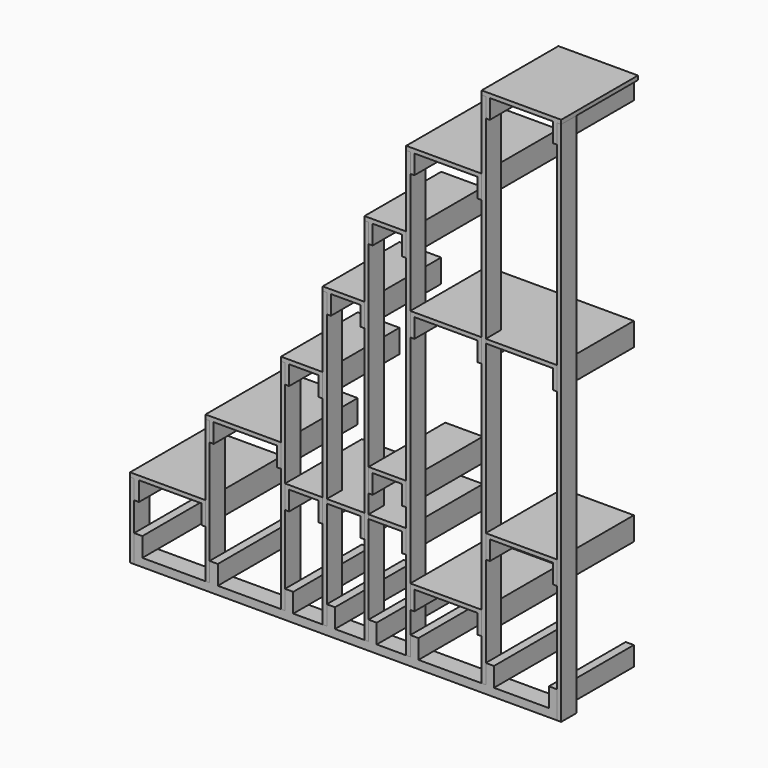
from build123d import *

# Parameters (mm, degrees)
F1_DEPTH = 89
F0_W     = 38
F0_H     = 89
F2_DEPTH = 445
F0_W_2   = 19
F0_H_2   = 19
F0_W_3   = 22.522257641
F3_DEPTH = 89


with BuildPart() as f1:
    # F0 (on Front) → F1 (new body)
    with BuildSketch(Plane.XZ):
        Polygon((0, 38), (0, 0), (1962, 0), (1962, 38), (1924, 38), (1669, 38), (1631, 38), (1612, 38), (1319, 38), (1281, 38), (1262, 38), (1125.34, 38), (1087.34, 38), (1068.34, 38), (931.67, 38), (893.67, 38), (874.67, 38), (738, 38), (700, 38), (681, 38), (388, 38), (350, 38), (331, 38), (38, 38), align=None)
    extrude(amount=-F1_DEPTH)

    # F0 (on Front) → F2 (join)
    with BuildSketch(Plane.XZ):
        with Locations((19, 82.5)):
            Rectangle(F0_W, F0_H)
        with Locations((369, 82.5)):
            Rectangle(F0_W, F0_H)
        with Locations((719, 82.5)):
            Rectangle(F0_W, F0_H)
        with Locations((912.67, 82.5)):
            Rectangle(F0_W, F0_H)
        with Locations((1106.34, 82.5)):
            Rectangle(F0_W, F0_H)
        with Locations((1300, 82.5)):
            Rectangle(F0_W, F0_H)
        with Locations((1650, 82.5)):
            Rectangle(F0_W, F0_H)
        with Locations((1943, 82.5)):
            Rectangle(F0_W, F0_H)
    extrude(amount=-F2_DEPTH)


with BuildPart() as f2:
    # F0 (on Front) → F2, piece 2 (new body)
    with BuildSketch(Plane.XZ):
        with Locations((1602.5, 274.5)):
            Rectangle(F0_W_2, F0_H)
        with Locations((1290.5, 274.5)):
            Rectangle(F0_W_2, F0_H)
        Polygon((1593, 319), (1612, 319), (1612, 338), (1281, 338), (1281, 319), (1300, 319), align=None)
    extrude(amount=-F2_DEPTH)


with BuildPart() as f2b:
    # F0 (on Front) → F2, piece 3 (new body)
    with BuildSketch(Plane.XZ):
        with Locations((1252.5, 493.5)):
            Rectangle(F0_W_2, F0_H)
        with Locations((1058.84, 493.5)):
            Rectangle(F0_W_2, F0_H)
        with Locations((864.8003072739, 493.5)):
            Rectangle(F0_W_2, F0_H)
        with Locations((709.5, 493.5)):
            Rectangle(F0_W_2, F0_H)
        Polygon((1243, 538), (1262, 538), (1262, 557), (1087.34, 557), (1087.34, 538), align=None)
        with Locations((1077.84, 547.5)):
            Rectangle(F0_W_2, F0_H_2)
        Polygon((893.67, 557), (893.67, 538), (1049.34, 538), (1068.34, 538), (1068.34, 557), align=None)
        with Locations((884.17, 547.5)):
            Rectangle(F0_W_2, F0_H_2)
        Polygon((874.3003072739, 538), (874.67, 538), (874.67, 557), (700, 557), (700, 538), (719, 538), (855.3003072739, 538), align=None)
    extrude(amount=-F2_DEPTH)


with BuildPart() as f2c:
    # F0 (on Front) → F2, piece 4 (new body)
    with BuildSketch(Plane.XZ):
        with Locations((321.5, 305.5)):
            Rectangle(F0_W_2, F0_H)
        with Locations((11.2611288205, 305.5)):
            Rectangle(F0_W_3, F0_H)
        Polygon((-19, 369), (-19, 350), (0, 350), (22.522257641, 350), (312, 350), (331, 350), (331, 369), align=None)
    extrude(amount=-F2_DEPTH)


with BuildPart() as f2d:
    # F0 (on Front) → F2, piece 5 (new body)
    with BuildSketch(Plane.XZ):
        with Locations((359.5, 655.5)):
            Rectangle(F0_W_2, F0_H)
        with Locations((671.5, 655.5)):
            Rectangle(F0_W_2, F0_H)
        Polygon((331, 719), (331, 700), (350, 700), (369, 700), (662, 700), (681, 700), (681, 719), align=None)
    extrude(amount=-F2_DEPTH)


with BuildPart() as f2e:
    # F0 (on Front) → F2, piece 6 (new body)
    with BuildSketch(Plane.XZ):
        with Locations((1096.84, 687.2)):
            Rectangle(F0_W_2, F0_H)
        with Locations((1252.5, 687.2)):
            Rectangle(F0_W_2, F0_H)
        Polygon((1262, 731.7), (1262, 750.7), (1087.34, 750.7), (1087.34, 731.7), (1106.34, 731.7), (1243, 731.7), align=None)
    extrude(amount=-F2_DEPTH)


with BuildPart() as f2f:
    # F0 (on Front) → F2, piece 7 (new body)
    with BuildSketch(Plane.XZ):
        with Locations((1640.5, 593.5)):
            Rectangle(F0_W_2, F0_H)
        with Locations((1952.5, 593.5)):
            Rectangle(F0_W_2, F0_H)
        Polygon((1943, 638), (1962, 638), (1962, 657), (1631, 657), (1631, 638), (1650, 638), align=None)
    extrude(amount=-F2_DEPTH)


with BuildPart() as f2g:
    # F0 (on Front) → F2, piece 8 (new body)
    with BuildSketch(Plane.XZ):
        with Locations((709.5, 1005.5)):
            Rectangle(F0_W_2, F0_H)
        with Locations((865.17, 1005.5)):
            Rectangle(F0_W_2, F0_H)
        Polygon((681, 1069), (681, 1050), (700, 1050), (719, 1050), (855.67, 1050), (874.67, 1050), (874.67, 1069), align=None)
    extrude(amount=-F2_DEPTH)


with BuildPart() as f2h:
    # F0 (on Front) → F2, piece 9 (new body)
    with BuildSketch(Plane.XZ):
        with Locations((903.17, 1355.5)):
            Rectangle(F0_W_2, F0_H)
        with Locations((1058.84, 1355.5)):
            Rectangle(F0_W_2, F0_H)
        Polygon((874.67, 1419), (874.67, 1400), (893.67, 1400), (912.67, 1400), (1049.34, 1400), (1068.34, 1400), (1068.34, 1419), align=None)
    extrude(amount=-F2_DEPTH)


with BuildPart() as f2i:
    # F0 (on Front) → F2, piece 10 (new body)
    with BuildSketch(Plane.XZ):
        with Locations((1290.5, 1387.2)):
            Rectangle(F0_W_2, F0_H)
        with Locations((1602.5, 1387.2)):
            Rectangle(F0_W_2, F0_H)
        with Locations((1952.5, 1387.2)):
            Rectangle(F0_W_2, F0_H)
        Polygon((1612, 1431.7), (1612, 1450.7), (1281, 1450.7), (1281, 1431.7), (1300, 1431.7), (1593, 1431.7), align=None)
        with Locations((1621.5, 1441.2)):
            Rectangle(F0_W_2, F0_H_2)
        Polygon((1962, 1431.7), (1962, 1450.7), (1631, 1450.7), (1631, 1431.7), (1943, 1431.7), align=None)
    extrude(amount=-F2_DEPTH)


with BuildPart() as f2j:
    # F0 (on Front) → F2, piece 11 (new body)
    with BuildSketch(Plane.XZ):
        with Locations((1096.84, 1705.5)):
            Rectangle(F0_W_2, F0_H)
        with Locations((1252.5, 1705.5)):
            Rectangle(F0_W_2, F0_H)
        Polygon((1262, 1750), (1262, 1769), (1068.34, 1769), (1068.34, 1750), (1087.34, 1750), (1106.34, 1750), (1243, 1750), align=None)
    extrude(amount=-F2_DEPTH)


with BuildPart() as f2k:
    # F0 (on Front) → F2, piece 12 (new body)
    with BuildSketch(Plane.XZ):
        with Locations((1290.5, 2055.5)):
            Rectangle(F0_W_2, F0_H)
        with Locations((1602.5, 2055.5)):
            Rectangle(F0_W_2, F0_H)
        Polygon((1612, 2100), (1612, 2119), (1262, 2119), (1262, 2100), (1281, 2100), (1300, 2100), (1593, 2100), align=None)
    extrude(amount=-F2_DEPTH)


with BuildPart() as f2l:
    # F0 (on Front) → F2, piece 13 (new body)
    with BuildSketch(Plane.XZ):
        with Locations((1640.5, 2395.5)):
            Rectangle(F0_W_2, F0_H)
        with Locations((1952.5, 2395.5)):
            Rectangle(F0_W_2, F0_H)
        Polygon((1962, 2440), (1981, 2440), (1981, 2459), (1612, 2459), (1612, 2440), (1631, 2440), (1650, 2440), (1943, 2440), align=None)
    extrude(amount=-F2_DEPTH)


with BuildPart() as f3:
    # F0 (on Front) → F3 (new body)
    with BuildSketch(Plane.XZ):
        Polygon((1962, 38), (1962, 0), (1981, 0), (1981, 2440), (1962, 2440), (1962, 2351), (1962, 1450.7), (1962, 1431.7), (1962, 1342.7), (1962, 657), (1962, 638), (1962, 549), (1962, 127), align=None)
    extrude(amount=-F3_DEPTH)


with BuildPart() as f3b:
    # F0 (on Front) → F3, piece 2 (new body)
    with BuildSketch(Plane.XZ):
        Polygon((-19, 0), (0, 0), (0, 38), (0, 127), (0, 261), (0, 350), (-19, 350), align=None)
    extrude(amount=-F3_DEPTH)


with BuildPart() as f3c:
    # F0 (on Front) → F3, piece 3 (new body)
    with BuildSketch(Plane.XZ):
        Polygon((331, 261), (331, 38), (350, 38), (350, 127), (350, 611), (350, 700), (331, 700), (331, 369), (331, 350), align=None)
    extrude(amount=-F3_DEPTH)


with BuildPart() as f3d:
    # F0 (on Front) → F3, piece 4 (new body)
    with BuildSketch(Plane.XZ):
        Polygon((681, 611), (681, 38), (700, 38), (700, 127), (700, 449), (700, 538), (700, 557), (700, 961), (700, 1050), (681, 1050), (681, 719), (681, 700), align=None)
    extrude(amount=-F3_DEPTH)


with BuildPart() as f3e:
    # F0 (on Front) → F3, piece 5 (new body)
    with BuildSketch(Plane.XZ):
        Polygon((874.67, 538), (874.67, 38), (893.67, 38), (893.67, 127), (893.67, 538), align=None)
        Polygon((874.67, 1400), (874.67, 1069), (874.67, 1050), (874.67, 961), (874.67, 557), (893.67, 557), (893.67, 1311), (893.67, 1400), align=None)
        with Locations((884.17, 547.5)):
            Rectangle(F0_W_2, F0_H_2)
    extrude(amount=-F3_DEPTH)


with BuildPart() as f3f:
    # F0 (on Front) → F3, piece 6 (new body)
    with BuildSketch(Plane.XZ):
        Polygon((1068.34, 38), (1087.34, 38), (1087.34, 127), (1087.34, 538), (1068.34, 538), (1068.34, 449), align=None)
        with Locations((1077.84, 547.5)):
            Rectangle(F0_W_2, F0_H_2)
        Polygon((1087.34, 1750), (1068.34, 1750), (1068.34, 1419), (1068.34, 1400), (1068.34, 1311), (1068.34, 557), (1087.34, 557), (1087.34, 642.7), (1087.34, 731.7), (1087.34, 750.7), (1087.34, 1661), align=None)
    extrude(amount=-F3_DEPTH)


with BuildPart() as f3g:
    # F0 (on Front) → F3, piece 7 (new body)
    with BuildSketch(Plane.XZ):
        Polygon((1262, 38), (1281, 38), (1281, 127), (1281, 230), (1281, 319), (1281, 338), (1281, 1342.7), (1281, 1431.7), (1281, 1450.7), (1281, 2011), (1281, 2100), (1262, 2100), (1262, 1769), (1262, 1750), (1262, 1661), (1262, 750.7), (1262, 731.7), (1262, 642.7), (1262, 557), (1262, 538), (1262, 449), align=None)
    extrude(amount=-F3_DEPTH)


with BuildPart() as f3h:
    # F0 (on Front) → F3, piece 8 (new body)
    with BuildSketch(Plane.XZ):
        Polygon((1612, 38), (1631, 38), (1631, 127), (1631, 549), (1631, 638), (1631, 657), (1631, 1431.7), (1612, 1431.7), (1612, 1342.7), (1612, 338), (1612, 319), (1612, 230), align=None)
        with Locations((1621.5, 1441.2)):
            Rectangle(F0_W_2, F0_H_2)
        Polygon((1631, 2440), (1612, 2440), (1612, 2119), (1612, 2100), (1612, 2011), (1612, 1450.7), (1631, 1450.7), (1631, 2351), align=None)
    extrude(amount=-F3_DEPTH)


solid = Compound([f1.part, f2.part, f2b.part, f2c.part, f2d.part, f2e.part, f2f.part, f2g.part, f2h.part, f2i.part, f2j.part, f2k.part, f2l.part, f3.part, f3b.part, f3c.part, f3d.part, f3e.part, f3f.part, f3g.part, f3h.part])
